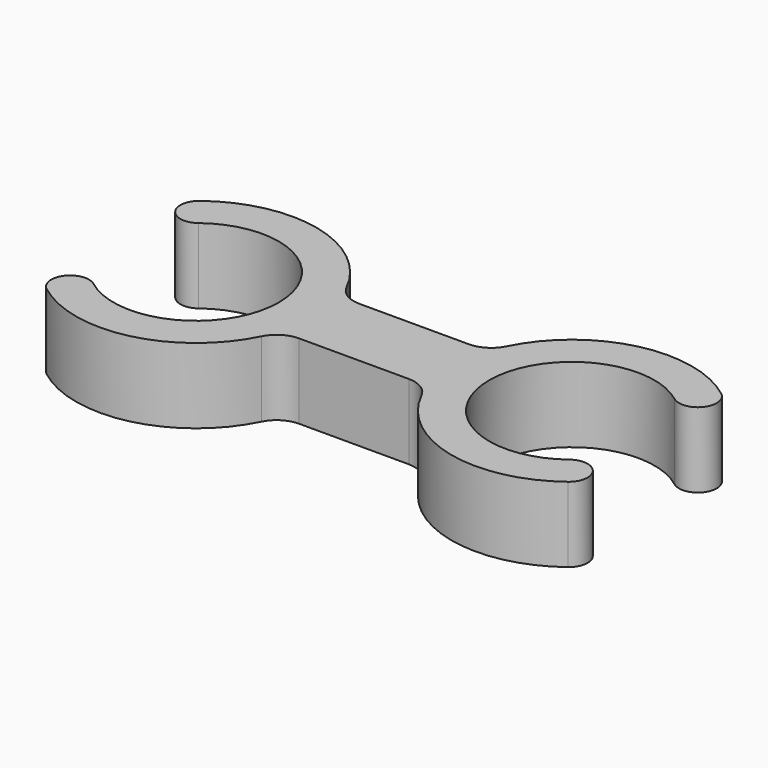
from build123d import *

# Parameters (mm, degrees)
PAD_DEPTH = 8
FILLET_R  = 3


with BuildPart() as part:
    # Sketch → Pad (new body)
    with BuildSketch(Plane.XY):
        with BuildLine():
            ThreePointArc((-25.332917, -7), (-11.2, 0), (-25.332917, 7))
            ThreePointArc((-27.75697, 10.181818), (-28.135852, 7.378883), (-25.332917, 7))
            ThreePointArc((-7.841053, 4), (-16.205521, 12.224644), (-27.75697, 10.181818))
            Line((0, 4), (-7.841053, 4))
            Line((0, 4), (7.841053, 4))
            ThreePointArc((27.75697, 10.181818), (16.205521, 12.224644), (7.841053, 4))
            ThreePointArc((25.332917, 7), (28.135852, 7.378883), (27.75697, 10.181818))
            ThreePointArc((25.332917, 7), (11.2, 0), (25.332917, -7))
            ThreePointArc((27.75697, -10.181818), (28.135852, -7.378883), (25.332917, -7))
            ThreePointArc((7.841053, -4), (16.205521, -12.224644), (27.75697, -10.181818))
            Line((0, -4), (7.841053, -4))
            Line((0, -4), (-7.841053, -4))
            ThreePointArc((-27.75697, -10.181818), (-16.205521, -12.224644), (-7.841053, -4))
            ThreePointArc((-25.332917, -7), (-28.135852, -7.378883), (-27.75697, -10.181818))
        make_face()
    extrude(amount=PAD_DEPTH)

    # Fillet
    fillet_edges = [part.edges().sort_by_distance(p)[0] for p in [
        (-7.841053, -4, 4),
        (7.841053, -4, 4),
        (-7.841053, 4, 4),
        (7.841053, 4, 4),
    ]]
    fillet(fillet_edges, radius=FILLET_R)


solid = part.part
